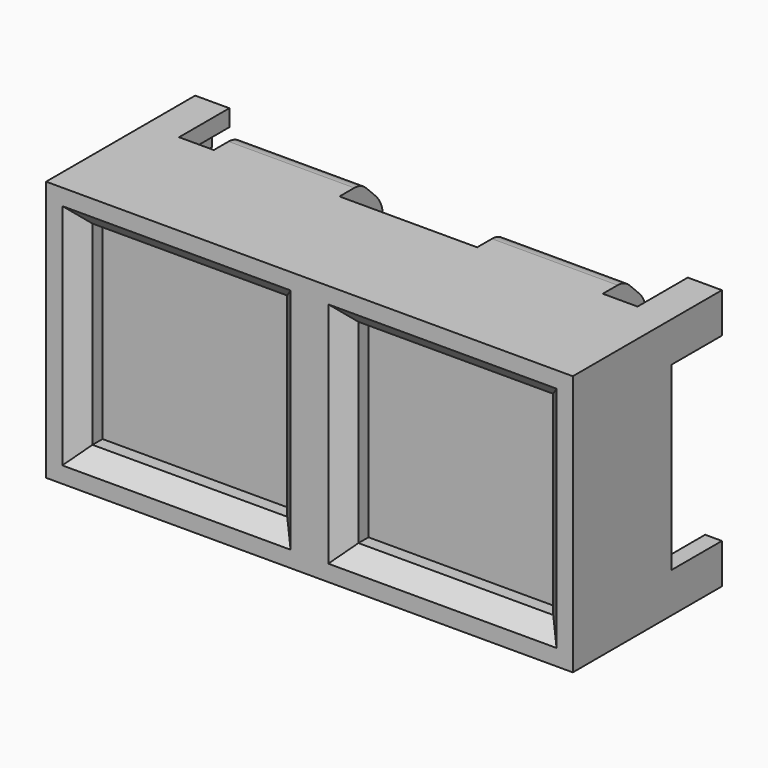
from build123d import *

# Parameters (mm, degrees)
SKETCH013_W     = 25.15
SKETCH013_H     = 12.45
PAD001_DEPTH    = 5.9
SKETCH018_W     = 9.3
SKETCH018_H     = 9.3
POCKET008_DEPTH = 1.4
CHAMFER_SIZE    = 0.8
PAD003_DEPTH    = 3
SKETCH030_W     = 6
SKETCH030_H     = 3
PAD004_DEPTH    = 2.6
SKETCH028_R     = 1.5
PAD005_DEPTH    = 2
FILLET004_R     = 0.5
CHAMFER003_SIZE = 1.3
FILLET003_R     = 1.5
FILLET002_R     = 1
SKETCH029_W     = 6
SKETCH029_H     = 1.6
POCKET010_DEPTH = 1.8
SKETCH017_W     = 6
SKETCH017_H     = 1.6
POCKET009_DEPTH = 1.8
SKETCH014_W     = 1.6
SKETCH014_H     = 6
POCKET005_DEPTH = 1.8


with BuildPart() as part:
    # Sketch013 → Pad001 (new body)
    with BuildSketch(Plane.XZ):
        Rectangle(SKETCH013_W, SKETCH013_H)
    extrude(amount=PAD001_DEPTH)

    # Sketch018 (on Face6 of Pad001) → Pocket008 (cut)
    with BuildSketch(Plane.XZ.offset(5.9)):
        with Locations((-6.35, 0)):
            Rectangle(SKETCH018_W, SKETCH018_H)
        with Locations((6.35, 0)):
            Rectangle(SKETCH018_W, SKETCH018_H)
    extrude(amount=-POCKET008_DEPTH, mode=Mode.SUBTRACT)

    # Chamfer
    chamfer_edges = [part.edges().sort_by_distance(p)[0] for p in [
        (-6.35, -5.9, 4.65),
        (-11, -5.9, 0),
        (-6.35, -5.9, -4.65),
        (-1.7, -5.9, 0),
        (1.7, -5.9, 0),
        (6.35, -5.9, 4.65),
        (11, -5.9, 0),
        (6.35, -5.9, -4.65),
    ]]
    chamfer(chamfer_edges, length=CHAMFER_SIZE)

    # Sketch015 (on Face18 of Chamfer) → Pad003 (join)
    with BuildSketch(Plane(origin=(0, 0, 0), x_dir=(1, 0, 0), z_dir=(0, 1, 0))):
        Polygon((12.575, -4.315), (12.575, -6.225), (10.945, -6.225), (10.945, -5.425), (11.775, -5.425), (11.775, -4.315), align=None)
        Polygon((-10.945, -6.225), (-12.575, -6.225), (-12.575, -4.315), (-11.775, -4.315), (-11.775, -5.425), (-10.945, -5.425), align=None)
        Polygon((12.575, 4.315), (12.575, 6.225), (10.945, 6.225), (10.945, 5.425), (11.775, 5.425), (11.775, 4.315), align=None)
        Polygon((-11.775, 4.315), (-11.775, 5.425), (-10.945, 5.425), (-10.945, 6.225), (-12.575, 6.225), (-12.575, 4.315), align=None)
    extrude(amount=PAD003_DEPTH)

    # Sketch030 (on Face19 of Pad003) → Pad004 (join)
    with BuildSketch(Plane(origin=(0, 0, 0), x_dir=(1, 0, 0), z_dir=(0, 1, 0))):
        with Locations((-6.2875, 4.725)):
            Rectangle(SKETCH030_W, SKETCH030_H)
        with Locations((6.2875, 4.725)):
            Rectangle(SKETCH030_W, SKETCH030_H)
        with Locations((-6.2875, -4.725)):
            Rectangle(SKETCH030_W, SKETCH030_H)
        with Locations((6.2875, -4.725)):
            Rectangle(SKETCH030_W, SKETCH030_H)
    extrude(amount=PAD004_DEPTH)

    # Sketch028 (on Face19 of Pad004) → Pad005 (join)
    with BuildSketch(Plane(origin=(0, 0, 0), x_dir=(1, 0, 0), z_dir=(0, 1, 0))):
        Circle(SKETCH028_R)
    extrude(amount=PAD005_DEPTH)

    # Fillet004
    fillet004_edges = [part.edges().sort_by_distance(p)[0] for p in [
        (-1.5, 2, 0),
    ]]
    fillet(fillet004_edges, radius=FILLET004_R)

    # Chamfer003
    chamfer003_edges = [part.edges().sort_by_distance(p)[0] for p in [
        (6.2875, 2.6, -6.225),
        (-6.2875, 2.6, -6.225),
        (6.2875, 2.6, 6.225),
        (-6.2875, 2.6, 6.225),
    ]]
    chamfer(chamfer003_edges, length=CHAMFER003_SIZE)

    # Fillet003
    fillet003_edges = [part.edges().sort_by_distance(p)[0] for p in [
        (-6.2875, 2.6, 4.925),
        (6.2875, 2.6, 4.925),
        (-6.2875, 2.6, -4.925),
        (6.2875, 2.6, -4.925),
    ]]
    fillet(fillet003_edges, radius=FILLET003_R)

    # Fillet002
    fillet002_edges = [part.edges().sort_by_distance(p)[0] for p in [
        (6.2875, 1.3, -6.225),
        (-6.2875, 1.3, -6.225),
        (6.2875, 1.3, 6.225),
        (-6.2875, 1.3, 6.225),
    ]]
    fillet(fillet002_edges, radius=FILLET002_R)

    # Sketch029 (on Face22 of Fillet002) → Pocket010 (cut)
    with BuildSketch(Plane(origin=(0, 0, 3.225), x_dir=(1, 0, 0), z_dir=(0, 0, -1))):
        with Locations((-6.2875, -0.8)):
            Rectangle(SKETCH029_W, SKETCH029_H)
    extrude(amount=-POCKET010_DEPTH, mode=Mode.SUBTRACT)

    # Sketch017 (on Face25 of Pocket010) → Pocket009 (cut)
    with BuildSketch(Plane(origin=(0, 0, 3.225), x_dir=(1, 0, 0), z_dir=(0, 0, -1))):
        with Locations((6.2875, -0.8)):
            Rectangle(SKETCH017_W, SKETCH017_H)
    extrude(amount=-POCKET009_DEPTH, mode=Mode.SUBTRACT)

    # Sketch014 (on DatumPlane) → Pocket005 (cut)
    with BuildSketch(Plane(origin=(0, 1.3, -3.225), x_dir=(0, 1, 0), z_dir=(0, 0, 1))):
        with Locations((-0.5, 6.2875)):
            Rectangle(SKETCH014_W, SKETCH014_H)
        with Locations((-0.5, -6.2875)):
            Rectangle(SKETCH014_W, SKETCH014_H)
    extrude(amount=-POCKET005_DEPTH, mode=Mode.SUBTRACT)


solid = part.part
